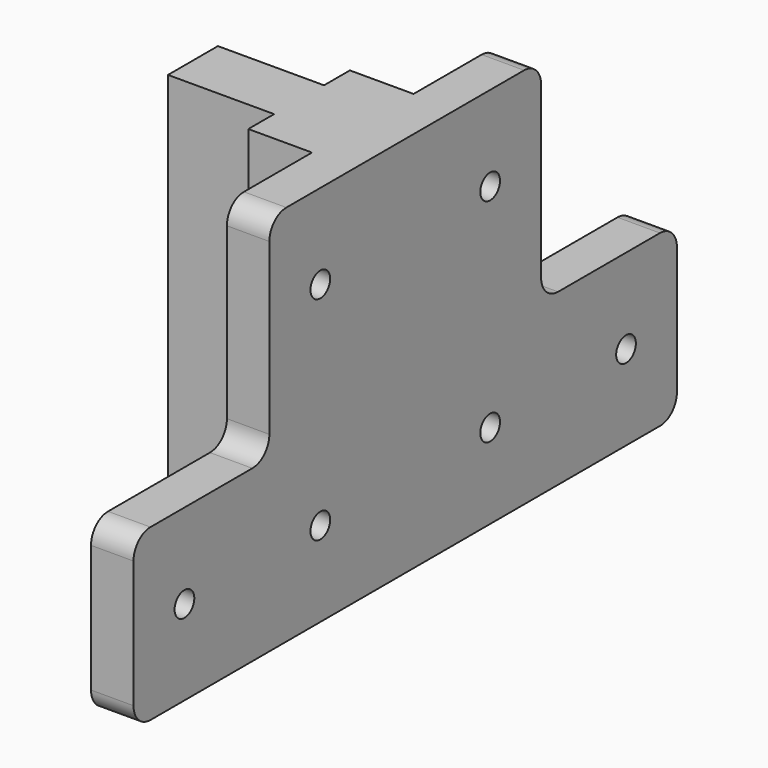
from build123d import *

# Parameters (mm, degrees)
F0_R     = 2.9
F1_DEPTH = 10
F2_W     = 29.9
F2_H     = 90
F3_DEPTH = 40
F4_W     = 7.6
F4_H     = 90
F5_DEPTH = 25
F6_R     = 3.4
F7_DEPTH = 30
F8_SIZE2 = 4
F8_SIZE  = 3


with BuildPart() as f1:
    # F0 (on Right) → F1 (new body)
    with BuildSketch(Plane.YZ):
        with BuildLine():
            Line((-75, -45), (75, -45))
            ThreePointArc((75, -45), (78.535534, -43.535534), (80, -40))
            Line((80, -40), (80, -10))
            ThreePointArc((80, -10), (78.535534, -6.464466), (75, -5))
            Line((75, -5), (45, -5))
            ThreePointArc((45, -5), (41.464466, -3.535534), (40, 0))
            Line((40, 0), (40, 40))
            ThreePointArc((40, 40), (38.535534, 43.535534), (35, 45))
            Line((35, 45), (-35, 45))
            ThreePointArc((-35, 45), (-38.535534, 43.535534), (-40, 40))
            Line((-40, 40), (-40, 0))
            ThreePointArc((-40, 0), (-41.464466, -3.535534), (-45, -5))
            Line((-45, -5), (-75, -5))
            ThreePointArc((-75, -5), (-78.535534, -6.464466), (-80, -10))
            Line((-80, -10), (-80, -40))
            ThreePointArc((-80, -40), (-78.535534, -43.535534), (-75, -45))
        make_face()
        with Locations((-65, -25)):
            Circle(F0_R, mode=Mode.SUBTRACT)
        with Locations((-25, -25)):
            Circle(F0_R, mode=Mode.SUBTRACT)
        with Locations((25, -25)):
            Circle(F0_R, mode=Mode.SUBTRACT)
        with Locations((65, -25)):
            Circle(F0_R, mode=Mode.SUBTRACT)
        with Locations((-25, 25)):
            Circle(F0_R, mode=Mode.SUBTRACT)
        with Locations((25, 25)):
            Circle(F0_R, mode=Mode.SUBTRACT)
    extrude(amount=F1_DEPTH)

    # F2 (on face) → F3 (join)
    with BuildSketch(Plane(origin=(0, 0, 0), x_dir=(0, -1, 0), z_dir=(-1, 0, 0))):
        Rectangle(F2_W, F2_H)
    extrude(amount=F3_DEPTH)

    # F4 (on face) → F5 (cut)
    with BuildSketch(Plane(origin=(-40, 0, 0), x_dir=(0, -1, 0), z_dir=(-1, 0, 0))):
        with Locations((-11.15, 0)):
            Rectangle(F4_W, F4_H)
        with Locations((11.15, 0)):
            Rectangle(F4_W, F4_H)
    extrude(amount=-F5_DEPTH, mode=Mode.SUBTRACT)

    # F6 (on face) → F7 (cut)
    with BuildSketch(Plane(origin=(-40, 0, 0), x_dir=(0, -1, 0), z_dir=(-1, 0, 0))):
        with Locations((0, 25)):
            Circle(F6_R)
        with Locations((0, -25)):
            Circle(F6_R)
    extrude(amount=-F7_DEPTH, mode=Mode.SUBTRACT)

    # F8
    f8_edges = [f1.edges().sort_by_distance(p)[0] for p in [
        (0, 22.1, 25),
        (0, -27.9, 25),
        (0, -67.9, -25),
        (0, -27.9, -25),
        (0, 22.1, -25),
        (0, 62.1, -25),
    ]]
    chamfer(f8_edges, length=F8_SIZE, length2=F8_SIZE2)


solid = f1.part
